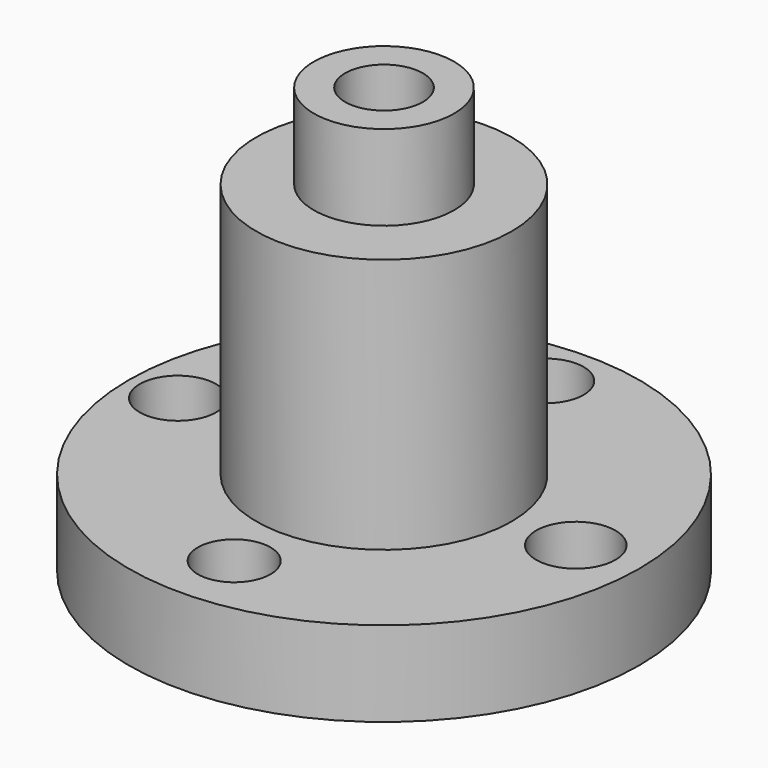
from build123d import *

# Parameters (mm, degrees)
F0_R     = 38.1
F1_DEPTH = 12.7
F2_R     = 19.05
F3_DEPTH = 38.1
F4_R     = 10.474618
F5_DEPTH = 12.7
F6_R     = 5.428581
F6_R_2   = 5.923411
F6_R_3   = 5.637256
F6_R_4   = 5.703751
F7_DEPTH = 12.701
F8_R     = 5.809223
F9_DEPTH = 63.501


with BuildPart() as f1:
    # F0 (on Top) → F1 (new body)
    with BuildSketch(Plane.XY):
        Circle(F0_R)
    extrude(amount=-F1_DEPTH)

    # F2 (on face) → F3 (join)
    with BuildSketch(Plane.XY):
        Circle(F2_R)
    extrude(amount=F3_DEPTH)

    # F4 (on face) → F5 (join)
    with BuildSketch(Plane.XY.offset(38.1)):
        Circle(F4_R)
    extrude(amount=F5_DEPTH)

    # F6 (on face) → F7 (cut, through all)
    with BuildSketch(Plane.XY):
        with Locations((0, -27.94018)):
            Circle(F6_R)
        with Locations((28.614422, 0)):
            Circle(F6_R_2)
        with Locations((0, 30.194912)):
            Circle(F6_R_3)
        with Locations((-30.750221, 0)):
            Circle(F6_R_4)
    extrude(amount=-F7_DEPTH, mode=Mode.SUBTRACT)

    # F8 (on face) → F9 (cut, through all)
    with BuildSketch(Plane.XY.offset(50.8)):
        Circle(F8_R)
    extrude(amount=-F9_DEPTH, mode=Mode.SUBTRACT)


solid = f1.part
